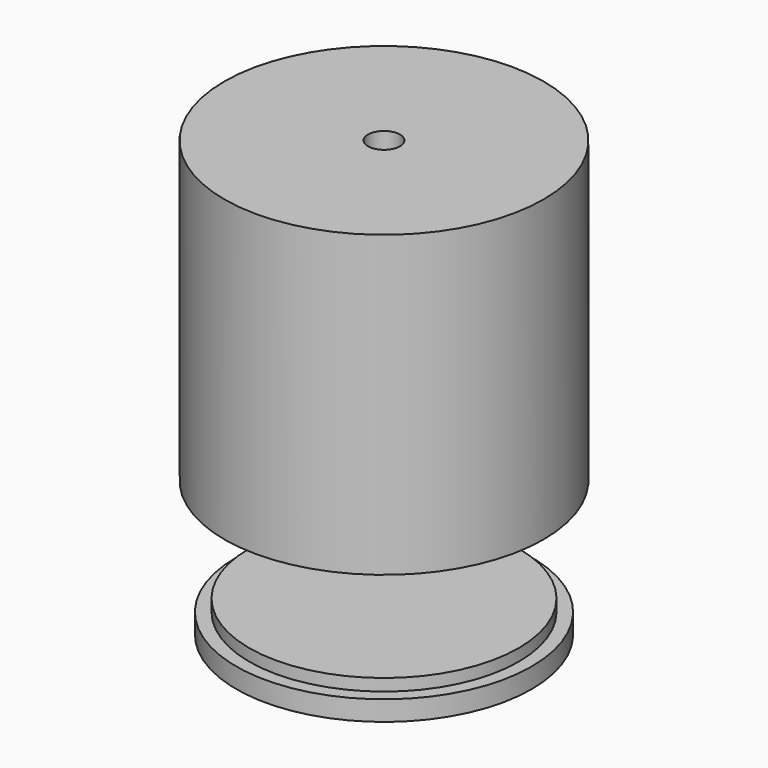
from build123d import *

# Parameters (mm, degrees)
SKETCH_R        = 16
PAD_DEPTH       = 30
SKETCH001_R     = 15
POCKET_DEPTH    = 28
SKETCH002_R     = 1.6
POCKET001_DEPTH = 5
SKETCH003_R     = 15.3
SKETCH003_R_2   = 14
PAD001_DEPTH    = 26
SKETCH004_R     = 14.8
PAD002_DEPTH    = 2
SKETCH005_R     = 13.5
PAD003_DEPTH    = 1.2


with BuildPart() as cuerpo:
    # Sketch → Pad (new body)
    with BuildSketch(Plane.XY):
        Circle(SKETCH_R)
    extrude(amount=PAD_DEPTH)

    # Sketch001 (on Face2 of Pad) → Pocket (cut)
    with BuildSketch(Plane(origin=(0, 0, 0), x_dir=(1, 0, 0), z_dir=(0, 0, -1))):
        Circle(SKETCH001_R)
    extrude(amount=-POCKET_DEPTH, mode=Mode.SUBTRACT)

    # Sketch002 (on Face5 of Pocket) → Pocket001 (cut)
    with BuildSketch(Plane(origin=(0, 0, 28), x_dir=(1, 0, 0), z_dir=(0, 0, -1))):
        Circle(SKETCH002_R)
    extrude(amount=-POCKET001_DEPTH, mode=Mode.SUBTRACT)

    # Sketch003 (on Face6 of Pocket001) → Pad001 (join)
    with BuildSketch(Plane(origin=(0, 0, 28), x_dir=(1, 0, 0), z_dir=(0, 0, -1))):
        Circle(SKETCH003_R)
        Circle(SKETCH003_R_2, mode=Mode.SUBTRACT)
    extrude(amount=PAD001_DEPTH)


with BuildPart() as cuerpo001:
    # Sketch004 → Pad002 (new body)
    with BuildSketch(Plane.XY):
        Circle(SKETCH004_R)
    extrude(amount=PAD002_DEPTH)

    # Sketch005 (on Face3 of Pad002) → Pad003 (join)
    with BuildSketch(Plane.XY.offset(2)):
        Circle(SKETCH005_R)
    extrude(amount=PAD003_DEPTH)


with BuildPart() as cuerpo001_1:
    # Body001 placement: moved
    add(cuerpo001.part.moved(Location((0, 0, -13.6))))


solid = Compound([cuerpo.part, cuerpo001_1.part])
